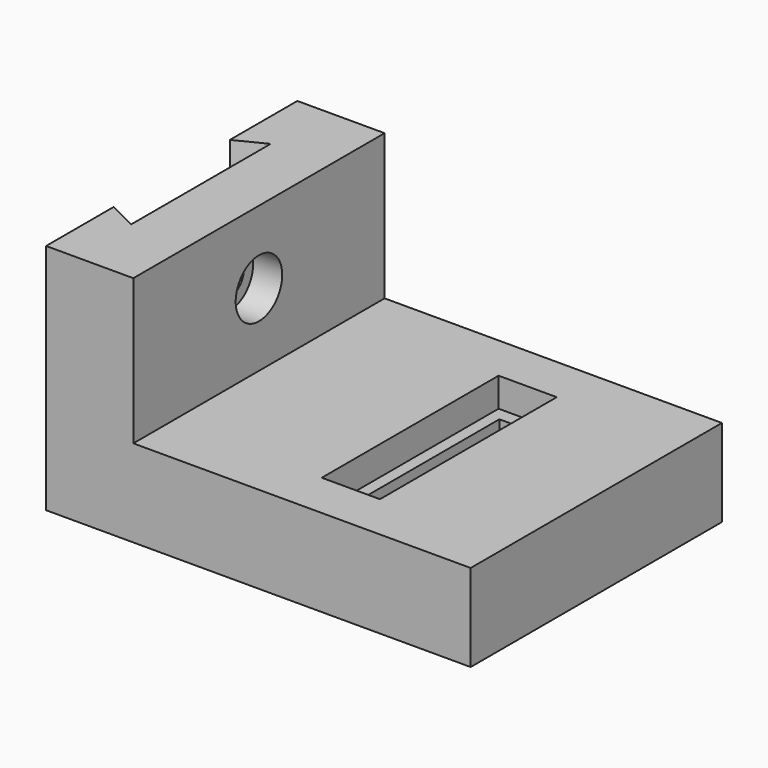
from build123d import *

# Parameters (mm, degrees)
SKETCH_W        = 58
SKETCH_H        = 54
SKETCH_W_2      = 10
SKETCH_H_2      = 38
PAD_DEPTH       = 15
PAD001_DEPTH    = 40
SKETCH002_W     = 10
SKETCH002_H     = 38
SKETCH002_W_2   = 6
SKETCH002_H_2   = 33.513506
PAD002_DEPTH    = 10
SKETCH004_R     = 5
POCKET_DEPTH    = 5
SKETCH005_R     = 3
POCKET001_DEPTH = 10


with BuildPart() as part:
    # Sketch → Pad (new body)
    with BuildSketch(Plane.XY):
        with Locations((29, 27)):
            Rectangle(SKETCH_W, SKETCH_H)
        with Locations((31, 27)):
            Rectangle(SKETCH_W_2, SKETCH_H_2, mode=Mode.SUBTRACT)
    extrude(amount=PAD_DEPTH)

    # Sketch003 → Pad001 (join)
    with BuildSketch(Plane.XY):
        Polygon((-15, 0), (-15, 14.5), (-10, 12), (-10, 42), (-15, 39.5), (-15, 54), (0, 54), (0, 0), align=None)
    extrude(amount=PAD001_DEPTH)

    # Sketch002 → Pad002 (join)
    with BuildSketch(Plane.XY):
        with Locations((31, 27)):
            Rectangle(SKETCH002_W, SKETCH002_H)
        with Locations((31, 26.915923)):
            Rectangle(SKETCH002_W_2, SKETCH002_H_2, mode=Mode.SUBTRACT)
    extrude(amount=PAD002_DEPTH)

    # Sketch004 → Pocket (cut)
    with BuildSketch(Plane.YZ):
        with Locations((27, 27.5)):
            Circle(SKETCH004_R)
    extrude(amount=-POCKET_DEPTH, mode=Mode.SUBTRACT)

    # Sketch005 → Pocket001 (cut)
    with BuildSketch(Plane.YZ):
        with Locations((27, 27.5)):
            Circle(SKETCH005_R)
    extrude(amount=-POCKET001_DEPTH, mode=Mode.SUBTRACT)


solid = part.part
